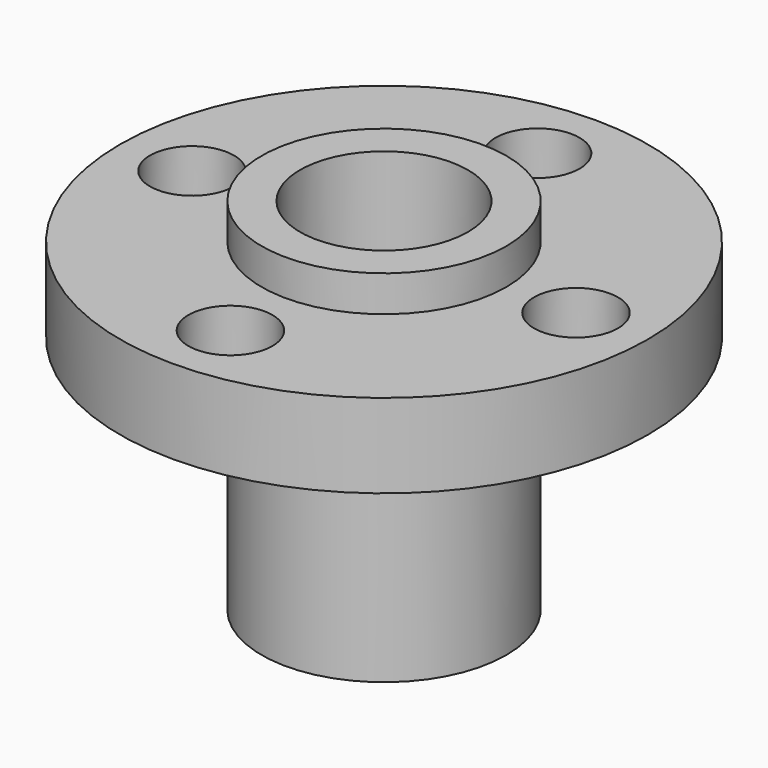
from build123d import *

# Parameters (mm, degrees)
F0_R     = 11
F0_R_2   = 1.75
F0_R_3   = 5.1
F1_DEPTH = 3.5
F0_R_4   = 3.5
F2_DEPTH = 5
F3_DEPTH = 10


with BuildPart() as f1:
    # F0 (on Top) → F1 (new body)
    with BuildSketch(Plane.XY):
        Circle(F0_R)
        with Locations((0, -8)):
            Circle(F0_R_2, mode=Mode.SUBTRACT)
        with Locations((-8, 0)):
            Circle(F0_R_2, mode=Mode.SUBTRACT)
        Circle(F0_R_3, mode=Mode.SUBTRACT)
        with Locations((8, 0)):
            Circle(F0_R_2, mode=Mode.SUBTRACT)
        with Locations((0, 8)):
            Circle(F0_R_2, mode=Mode.SUBTRACT)
    extrude(amount=F1_DEPTH)

    # F0 (on Top) → F2 (join)
    with BuildSketch(Plane.XY):
        Circle(F0_R_3)
        Circle(F0_R_4, mode=Mode.SUBTRACT)
    extrude(amount=F2_DEPTH)

    # F0 (on Top) → F3 (join)
    with BuildSketch(Plane.XY):
        Circle(F0_R_3)
        Circle(F0_R_4, mode=Mode.SUBTRACT)
    extrude(amount=-F3_DEPTH)


solid = f1.part
